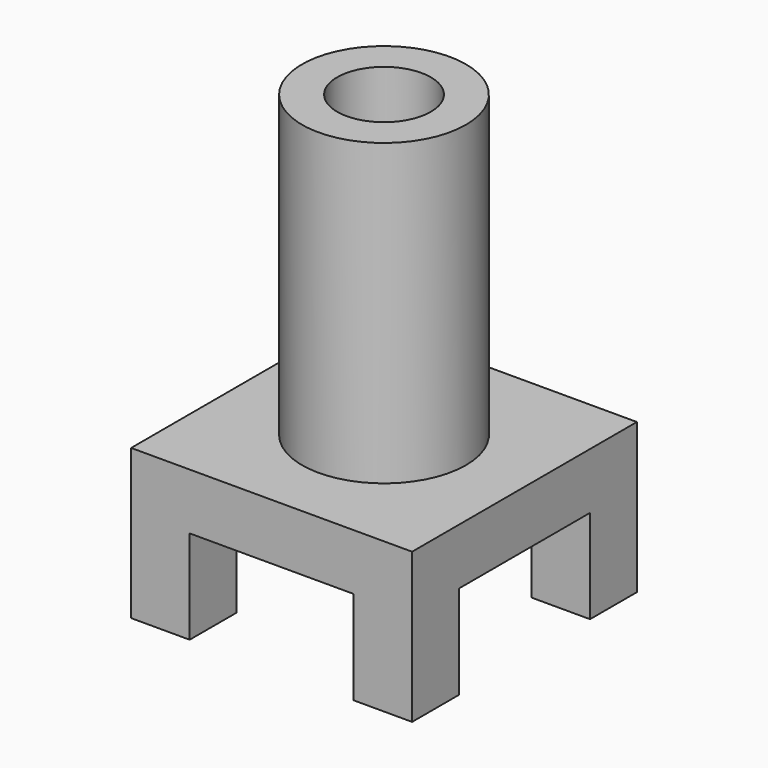
from build123d import *

# Parameters (mm, degrees)
F1_DEPTH = 30
F2_R     = 17.5
F2_R_2   = 10
F3_DEPTH = 64
F4_DEPTH = 32.001
F5_W     = 35
F5_H     = 20
F6_DEPTH = 93


with BuildPart() as f1:
    # F0 (on Front) → F1 (new body, symmetric)
    with BuildSketch(Plane.XZ):
        Polygon((0, 0.2733823939), (-30, 0.2733823939), (-30, -31.7266176061), (-17.5, -31.7266176061), (-17.5, -11.7266176061), (0, -11.7266176061), (17.5, -11.7266176061), (17.5, -31.7266176061), (30, -31.7266176061), (30, 0.2733823939), align=None)
    extrude(amount=F1_DEPTH, both=True)

    # F2 (on face) → F3 (join)
    with BuildSketch(Plane.XY.offset(0.2733823939)):
        Circle(F2_R)
        Circle(F2_R_2, mode=Mode.SUBTRACT)
    extrude(amount=F3_DEPTH)

    # F4 (cut, through all): a face of the model
    f4_faces = [f1.faces().sort_by_distance(p)[0] for p in [
        (0, 0, 0.2733823939),
    ]]
    extrude(f4_faces, amount=-F4_DEPTH, mode=Mode.SUBTRACT)

    # F5 (on face) → F6 (cut)
    with BuildSketch(Plane(origin=(-30, 0, 0), x_dir=(0, -1, 0), z_dir=(-1, 0, 0))):
        with Locations((0, -21.7266176061)):
            Rectangle(F5_W, F5_H)
    extrude(amount=-F6_DEPTH, mode=Mode.SUBTRACT)


solid = f1.part
